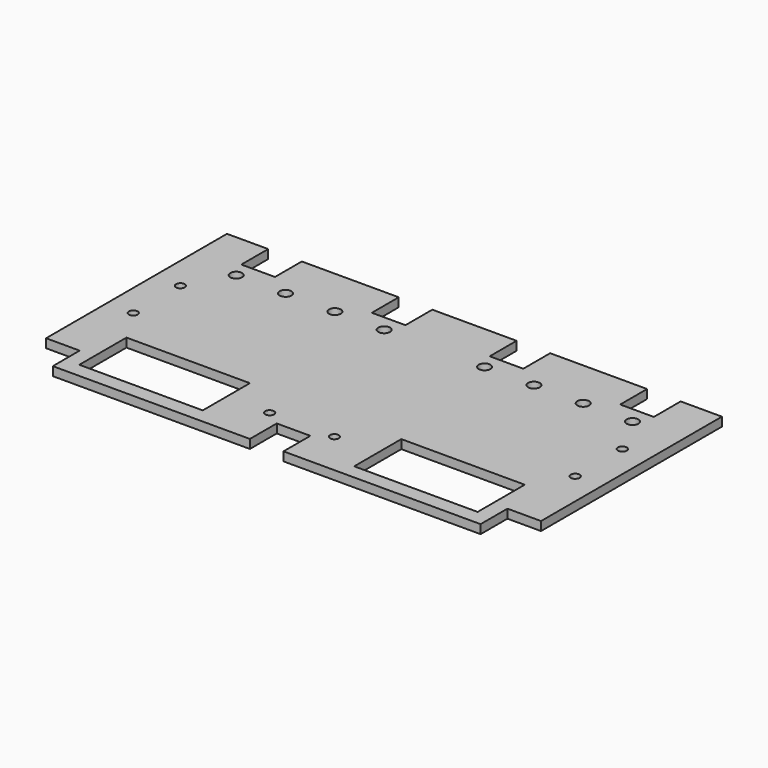
from build123d import *

# Parameters (mm, degrees)
SKETCH_R   = 2
SKETCH_R_2 = 1.5
SKETCH_W   = 41.9
SKETCH_H   = 20
PAD_DEPTH  = 3


with BuildPart() as part:
    # Sketch → Pad (new body)
    with BuildSketch(Plane.XY):
        Polygon((0, 88.15), (14, 88.15), (14, 76.75), (25.4, 76.75), (25.4, 88.15), (58.3, 88.15), (58.3, 76.75), (69.7, 76.75), (69.7, 88.15), (84, 88.15), (84, 11.4), (78.3, 11.4), (78.3, 0), (11.4, 0), (11.4, 11.4), (0, 11.4), align=None)
        with Locations((16.74, 71.15)):
            Circle(SKETCH_R, mode=Mode.SUBTRACT)
        with Locations((33.48, 71.15)):
            Circle(SKETCH_R, mode=Mode.SUBTRACT)
        with Locations((50.22, 71.15)):
            Circle(SKETCH_R, mode=Mode.SUBTRACT)
        with Locations((66.96, 71.15)):
            Circle(SKETCH_R, mode=Mode.SUBTRACT)
        with Locations((73, 15)):
            Circle(SKETCH_R_2, mode=Mode.SUBTRACT)
        with Locations((9, 57.15)):
            Circle(SKETCH_R_2, mode=Mode.SUBTRACT)
        with Locations((9, 37.15)):
            Circle(SKETCH_R_2, mode=Mode.SUBTRACT)
        with Locations((37.35, 15)):
            Rectangle(SKETCH_W, SKETCH_H, mode=Mode.SUBTRACT)
    pad = extrude(amount=PAD_DEPTH)

    # Mirrored: Pad across face of Pad
    add(pad.mirror(Plane(origin=(84, 49.775, 1.5), x_dir=(0, 1, 0), z_dir=(1, 0, 0))))


solid = part.part
